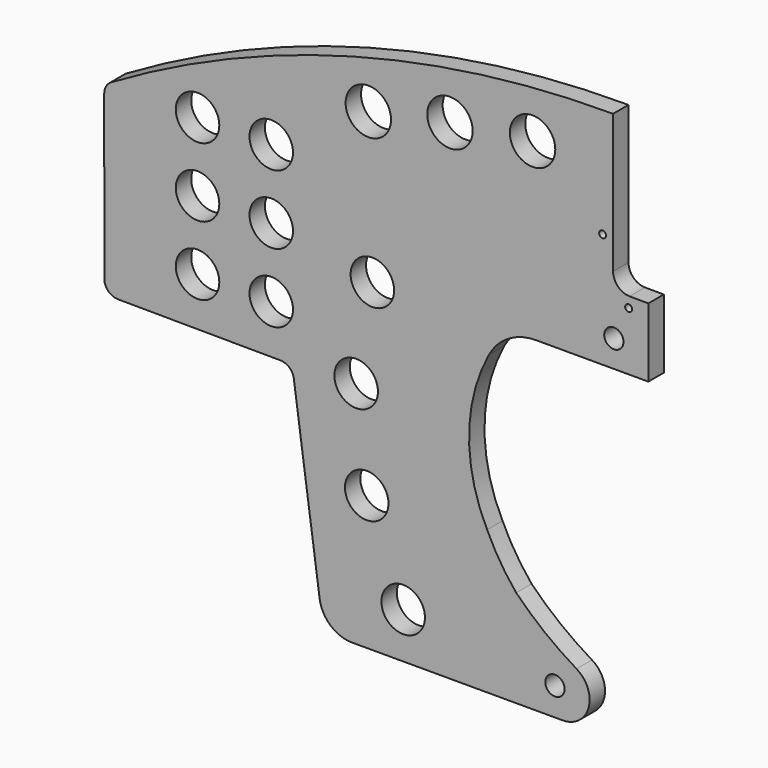
from build123d import *

# Parameters (mm, degrees)
MIRROREDSKETCH_R      = 3.5
PAD022_DEPTH          = 7
MIRROREDSKETCH001_R   = 1.25
POCKET031_DEPTH       = 37.001
MIRROREDSKETCH002_R   = 7.9
MIRROREDSKETCH002_R_2 = 8.25
POCKET032_DEPTH       = 7.001


with BuildPart() as part:
    # MirroredSketch → Pad022 (new body)
    with BuildSketch(Plane.XZ):
        with BuildLine():
            Line((-272.354121, 37.429427), (-272.343757, -21.795436))
            ThreePointArc((-272.343757, -21.795436), (-270.889508, -25.319746), (-267.373614, -26.794228))
            Line((-267.373614, -26.794228), (-208.288633, -27.144182))
            ThreePointArc((-203.514267, -31.323983), (-205.122941, -28.344833), (-208.288633, -27.144182))
            Line((-203.514267, -31.323983), (-194.118707, -98.712795))
            ThreePointArc((-194.118707, -98.712795), (-190.168756, -106.001984), (-182.403958, -108.907549))
            Line((-182.403958, -108.907549), (-105.81311, -108.907549))
            ThreePointArc((-105.81311, -108.907549), (-96.416366, -101.749846), (-100.820682, -90.789302))
            ThreePointArc((-122.731662, -73.595005), (-112.325474, -82.892139), (-100.820682, -90.789302))
            ThreePointArc((-133.286541, -56.888144), (-128.564005, -65.592146), (-122.731662, -73.595005))
            ThreePointArc((-132.652743, -0.740873), (-139.8492, -28.736851), (-133.286541, -56.888144))
            ThreePointArc((-115.533318, 9.507899), (-125.509691, 6.749885), (-132.652743, -0.740873))
            Line((-74.738136, 9.507899), (-115.533318, 9.507899))
            Line((-74.738136, 34.5363), (-74.738136, 9.507899))
            Line((-74.738136, 34.5363), (-81.548261, 34.57921))
            ThreePointArc((-87.538437, 40.605923), (-85.785771, 36.357677), (-81.548261, 34.57921))
            Line((-87.538437, 40.605923), (-87.54951, 90.990038))
            ThreePointArc((-87.54951, 90.990038), (-182.019209, 78.593902), (-269.883601, 41.742351))
            ThreePointArc((-269.883601, 41.742351), (-271.692728, 39.91461), (-272.354121, 37.429427))
        make_face()
        with Locations((-87.265671, 19.281441)):
            Circle(MIRROREDSKETCH_R, mode=Mode.SUBTRACT)
        with Locations((-108.660279, -98.693397)):
            Circle(MIRROREDSKETCH_R, mode=Mode.SUBTRACT)
    extrude(amount=PAD022_DEPTH)

    # MirroredSketch001 → Pocket031 (cut, through all)
    with BuildSketch(Plane.XZ.offset(37)):
        with Locations((-81.894829, 30.717421)):
            Circle(MIRROREDSKETCH001_R)
        with Locations((-91.346397, 51.206974)):
            Circle(MIRROREDSKETCH001_R)
    extrude(amount=-POCKET031_DEPTH, mode=Mode.SUBTRACT)

    # MirroredSketch002 → Pocket032 (cut, through all)
    with BuildSketch(Plane.XZ.offset(7)):
        with Locations((-211.699159, 15.680032)):
            Circle(MIRROREDSKETCH002_R)
        with Locations((-211.699159, -9.396934)):
            Circle(MIRROREDSKETCH002_R)
        with Locations((-238.46666, 15.680032)):
            Circle(MIRROREDSKETCH002_R)
        with Locations((-238.46666, -9.396934)):
            Circle(MIRROREDSKETCH002_R)
        with Locations((-211.699159, 40.756998)):
            Circle(MIRROREDSKETCH002_R)
        with Locations((-238.46666, 40.756998)):
            Circle(MIRROREDSKETCH002_R)
        with Locations((-180.85994, -25.593019)):
            Circle(MIRROREDSKETCH002_R)
        with Locations((-177.027703, -60.155267)):
            Circle(MIRROREDSKETCH002_R)
        with Locations((-163.777795, -92.306084)):
            Circle(MIRROREDSKETCH002_R)
        with Locations((-174.975, 8.679456)):
            Circle(MIRROREDSKETCH002_R)
        with Locations((-116.788777, 72.751051)):
            Circle(MIRROREDSKETCH002_R_2)
        with Locations((-146.796527, 68.916422)):
            Circle(MIRROREDSKETCH002_R_2)
        with Locations((-176.435989, 62.860703)):
            Circle(MIRROREDSKETCH002_R_2)
    extrude(amount=-POCKET032_DEPTH, mode=Mode.SUBTRACT)


solid = part.part
